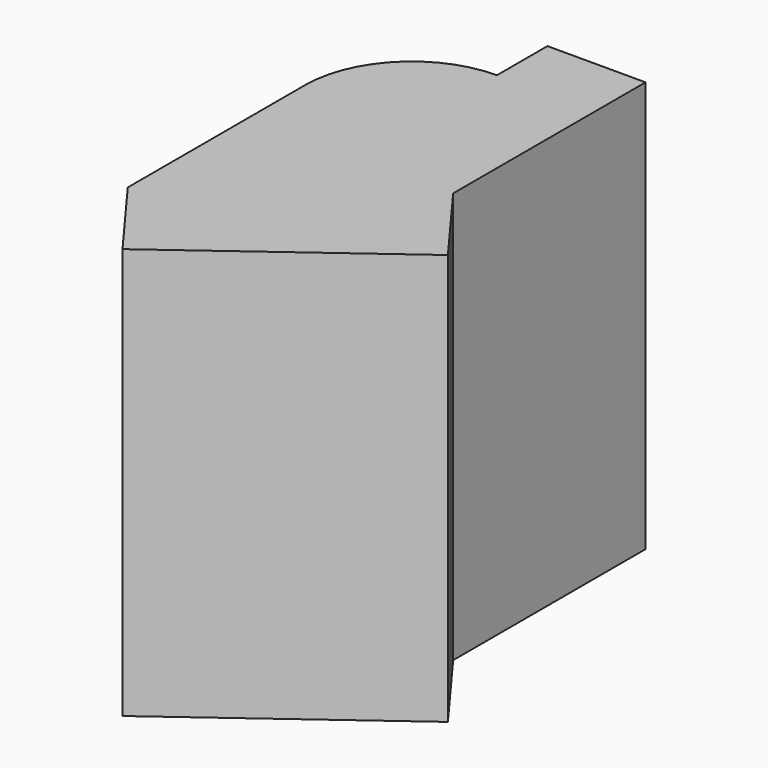
from build123d import *

# Parameters (mm, degrees)
F1_DEPTH = 100
F2_DEPTH = 25.4


with BuildPart() as f1:
    # F0 (on Top) → F1 (new body)
    with BuildSketch(Plane.XY):
        with BuildLine():
            Line((-63.4819120169, 0), (-63.4819120169, -53.9388507605))
            Line((-63.4819120169, -53.9388507605), (-13.6922001839, -17.2189325094))
            Line((-13.6922001839, -17.2189325094), (-13.6922001839, 41.2839800119))
            Line((-13.6922001839, 41.2839800119), (-37.5497788191, 41.2839800119))
            Line((-37.5497788191, 41.2839800119), (-37.5497788191, 25.9321331978))
            ThreePointArc((-37.5497788191, 25.9321331978), (-55.8865660539, 18.3367872348), (-63.4819120169, 0))
        make_face()
    extrude(amount=F1_DEPTH)

    # F2 (add): a face of the model
    f2_faces = [f1.faces().sort_by_distance(p)[0] for p in [
        (-38.5870561004, -35.5788916349, 50),
    ]]
    extrude(f2_faces, amount=F2_DEPTH)


solid = f1.part
